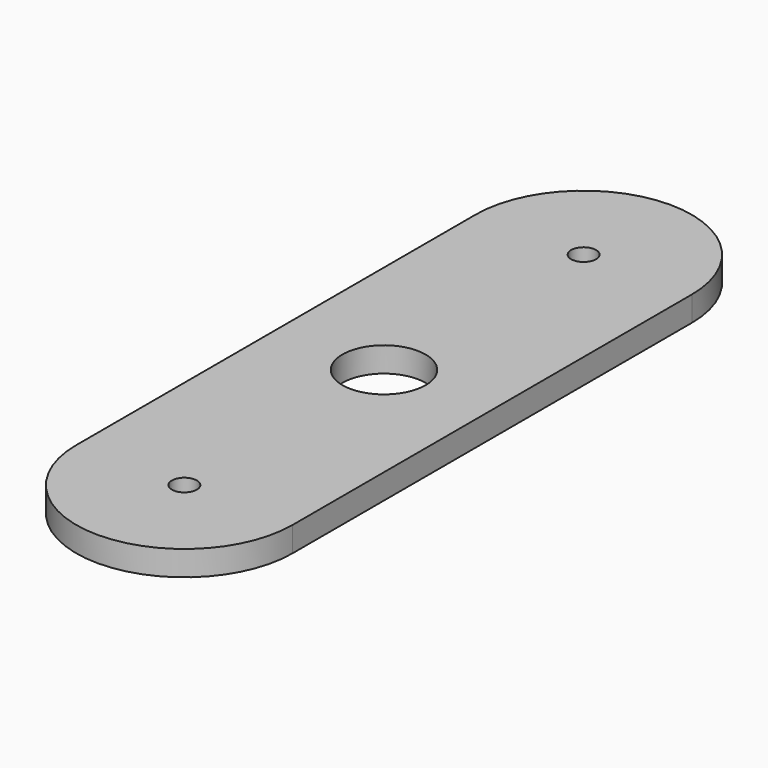
from build123d import *

# Parameters (mm, degrees)
F0_R     = 1.5
F0_R_2   = 5
F1_DEPTH = 3


with BuildPart() as f1:
    # F0 (on Top) → F1 (new body)
    with BuildSketch(Plane.XY):
        with BuildLine():
            Line((13, 0), (13, 30))
            ThreePointArc((13, 30), (0, 43), (-13, 30))
            Line((-13, 30), (-13, 0))
            Line((-13, 0), (-13, -30))
            ThreePointArc((-13, -30), (0, -43), (13, -30))
            Line((13, -30), (13, 0))
        make_face()
        with Locations((0, -30)):
            Circle(F0_R, mode=Mode.SUBTRACT)
        Circle(F0_R_2, mode=Mode.SUBTRACT)
        with Locations((0, 30)):
            Circle(F0_R, mode=Mode.SUBTRACT)
    extrude(amount=F1_DEPTH)


solid = f1.part
